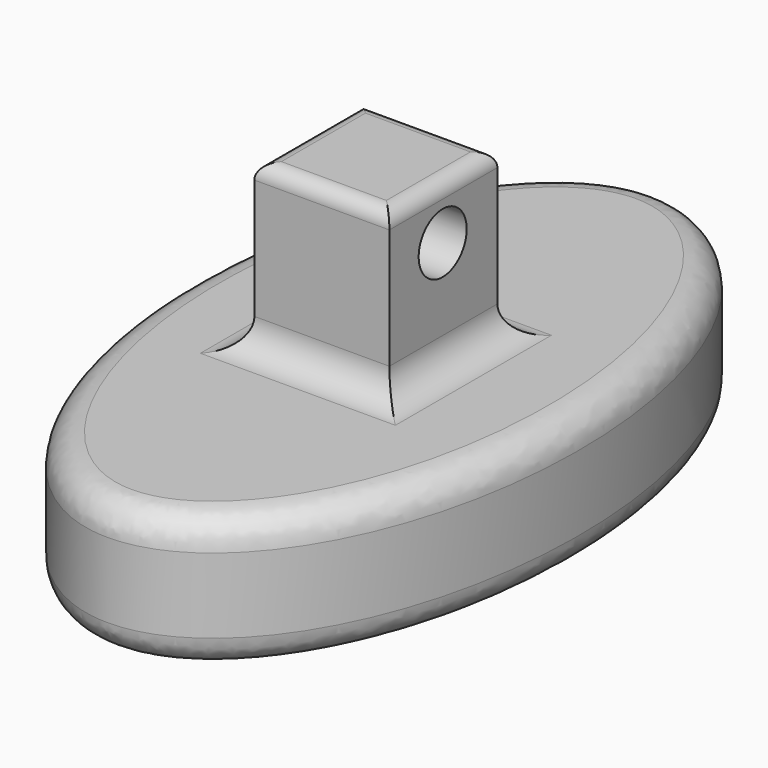
from build123d import *

# Parameters (mm, degrees)
F2_DEPTH = 2.286
F1_W     = 2.286
F1_H     = 5.08
F3_DEPTH = 1.143
F5_D     = 1.016
F6_R     = 0.508
F7_R     = 0.254
F8_R     = 0.508


with BuildPart() as f2:
    # F0 (on Top) → F2 (new body)
    with BuildSketch(Plane.XY):
        with BuildLine():
            add(Edge.make_bspline(
                [(0.0811854101, -5.7567684603), (5.8004171767, -5.7567684603), (2.9408012934, 3.0062315397), (0.0811854101, 11.7692315397), (-2.7784304732, 3.0062315397), (-5.6380463565, -5.7567684603), (0.0811854101, -5.7567684603)],
                knots=[0, 0, 0, 2.0943951024, 2.0943951024, 4.1887902048, 4.1887902048, 6.2831853072, 6.2831853072, 6.2831853072], degree=2, weights=[1, 0.5, 1, 0.5, 1, 0.5, 1]))
        make_face()
    extrude(amount=F2_DEPTH)

    # F1 (on Right) → F3 (join, symmetric)
    with BuildSketch(Plane.YZ):
        with Locations((0.0158594397, 2.54)):
            Rectangle(F1_W, F1_H)
    extrude(amount=F3_DEPTH, both=True)

    # F5 (through all)
    with Locations(Plane.YZ.offset(1.143)):
        with Locations((0, 4.1736070998)):
            Hole(F5_D / 2)

    # F6
    f6_edges = [f2.edges().sort_by_distance(p)[0] for p in [
        (0.081186, 5.927232, 0),
    ]]
    fillet(f6_edges, radius=F6_R)

    # F7
    f7_edges = [f2.edges().sort_by_distance(p)[0] for p in [
        (0, 1.158859, 5.08),
        (-1.143, 0.015859, 5.08),
        (0, -1.127141, 5.08),
        (1.143, 0.015859, 5.08),
    ]]
    fillet(f7_edges, radius=F7_R)

    # F8
    f8_edges = [f2.edges().sort_by_distance(p)[0] for p in [
        (0.081186, 5.927232, 2.286),
        (0, 1.158859, 2.286),
        (-1.143, 0.015859, 2.286),
        (0, -1.127141, 2.286),
        (1.143, 0.015859, 2.286),
    ]]
    fillet(f8_edges, radius=F8_R)


solid = f2.part
